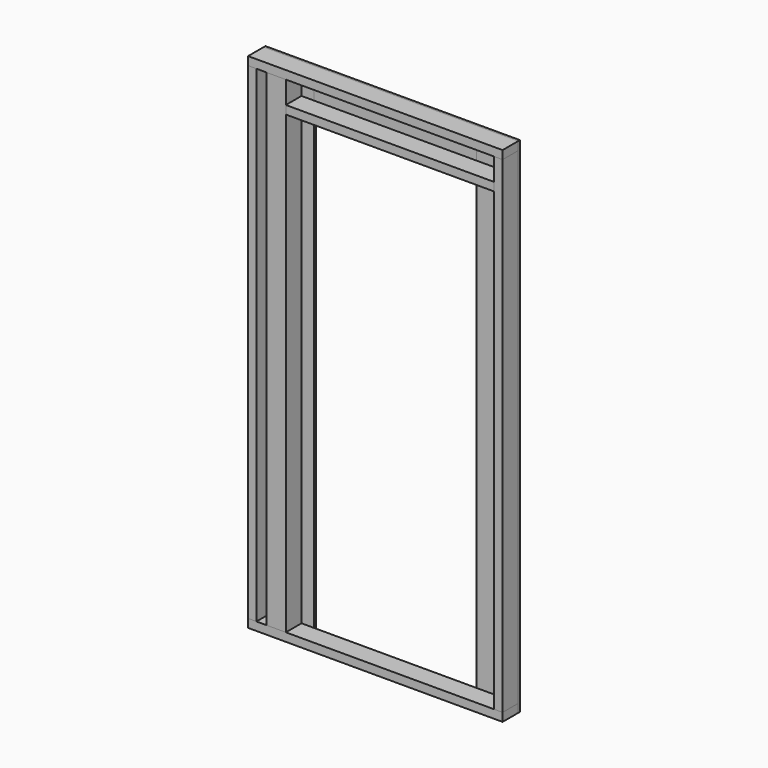
from build123d import *

# Parameters (mm, degrees)
F0_W      = 1155.7
F0_H      = 88.9
F1_DEPTH  = 38.1
F2_W      = 38.1
F2_H      = 88.9
F3_DEPTH  = 2209.8
F2_W_2    = 88.9
F4_W      = 1155.7
F4_H      = 88.9
F5_DEPTH  = 38.1
F6_W      = 190.5
F6_H      = 2286
F7_DEPTH  = 9.525
F6_W_2    = 228.6
F8_W      = 736.6
F8_H      = 215.9
F9_DEPTH  = 9.525
F10_W     = 88.9
F10_H     = 38.1
F11_DEPTH = 946.15


with BuildPart() as f1:
    # F0 (on Top) → F1 (new body)
    with BuildSketch(Plane.XY):
        with Locations((577.85, -44.45)):
            Rectangle(F0_W, F0_H)
    extrude(amount=F1_DEPTH)


with BuildPart() as f3:
    # F2 (on face) → F3 (new body)
    with BuildSketch(Plane.XY.offset(38.1)):
        with Locations((19.05, -44.45)):
            Rectangle(F2_W, F2_H)
    extrude(amount=F3_DEPTH)


with BuildPart() as f3b:
    # F2 (on face) → F3, piece 2 (new body)
    with BuildSketch(Plane.XY.offset(38.1)):
        with Locations((1136.65, -44.45)):
            Rectangle(F2_W, F2_H)
    extrude(amount=F3_DEPTH)


with BuildPart() as f3c:
    # F2 (on face) → F3, piece 3 (new body)
    with BuildSketch(Plane.XY.offset(38.1)):
        with Locations((127, -44.45)):
            Rectangle(F2_W_2, F2_H)
    extrude(amount=F3_DEPTH)


with BuildPart() as f5:
    # F4 (on face) → F5 (new body)
    with BuildSketch(Plane.XY.offset(2247.9)):
        with Locations((577.85, -44.45)):
            Rectangle(F4_W, F4_H)
    extrude(amount=F5_DEPTH)


with BuildPart() as f7:
    # F6 (on face) → F7 (new body)
    with BuildSketch(Plane(origin=(0, 0, 0), x_dir=(-1, 0, 0), z_dir=(0, 1, 0))):
        with Locations((-1060.45, 1143)):
            Rectangle(F6_W, F6_H)
    extrude(amount=F7_DEPTH)


with BuildPart() as f7b:
    # F6 (on face) → F7, piece 2 (new body)
    with BuildSketch(Plane(origin=(0, 0, 0), x_dir=(-1, 0, 0), z_dir=(0, 1, 0))):
        with Locations((-114.3, 1143)):
            Rectangle(F6_W_2, F6_H)
    extrude(amount=F7_DEPTH)


with BuildPart() as f9:
    # F8 (on face) → F9 (new body)
    with BuildSketch(Plane(origin=(0, 0, 0), x_dir=(-1, 0, 0), z_dir=(0, 1, 0))):
        with Locations((-596.9, 2178.05)):
            Rectangle(F8_W, F8_H)
    extrude(amount=F9_DEPTH)


with BuildPart() as f11:
    # F10 (on face) → F11 (new body)
    with BuildSketch(Plane.YZ.offset(171.45)):
        with Locations((-44.45, 2127.25)):
            Rectangle(F10_W, F10_H)
    extrude(amount=F11_DEPTH)


solid = Compound([f1.part, f3.part, f3b.part, f3c.part, f5.part, f7.part, f7b.part, f9.part, f11.part])
